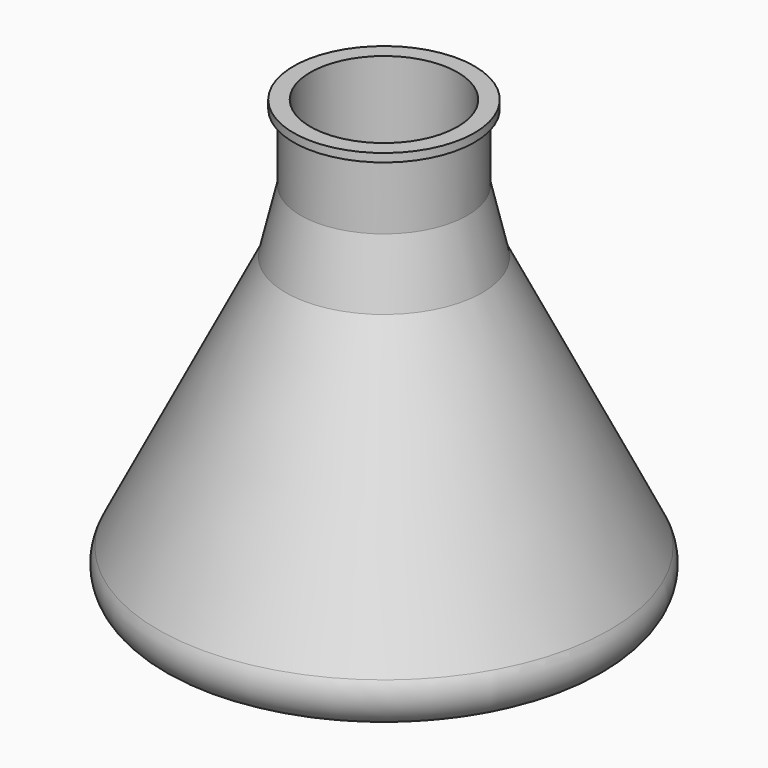
from build123d import *

# Parameters (mm, degrees)
F0_R      = 38.1
F2_R      = 12.7
F4_T      = -2.54
F5_R      = 12.7
F6_DEPTH  = 15.24
F7_R      = 10.5636642446
F8_DEPTH  = 53.34
F9_R      = 5.08
F10_SIZE  = 5.08
F11_R     = 13.7839746561
F12_DEPTH = 1.27
F13_R     = 11.2237856043
F14_DEPTH = 101.6
F16_R     = 11.2237856043
F17_DEPTH = 2.54


with BuildPart() as f3:
    # F0 (on Top) → F3 section 0
    with BuildSketch(Plane.XY):
        Circle(F0_R)
    # F2 (on offset) → F3 section 1
    with BuildSketch(Plane.XY.offset(50.8)):
        Circle(F2_R)
    loft()

    # F4
    f4_openings = [f3.faces().sort_by_distance(p)[0] for p in [
        (0, 0, 50.8),
    ]]
    offset(amount=F4_T, openings=f4_openings, kind=Kind.INTERSECTION)

    # F5 (on offset) → F6 (join)
    with BuildSketch(Plane.XY.offset(50.8)):
        Circle(F5_R)
    extrude(amount=F6_DEPTH)

    # F7 (on face) → F8 (cut)
    with BuildSketch(Plane.XY.offset(66.04)):
        Circle(F7_R)
    extrude(amount=-F8_DEPTH, mode=Mode.SUBTRACT)

    # F9
    f9_edges = [f3.edges().sort_by_distance(p)[0] for p in [
        (-38.1, 0, 0),
    ]]
    fillet(f9_edges, radius=F9_R)

    # F10
    f10_edges = [f3.edges().sort_by_distance(p)[0] for p in [
        (-12.7, 0, 50.8),
    ]]
    chamfer(f10_edges, length=F10_SIZE)

    # F11 (on face) → F12 (join)
    with BuildSketch(Plane.XY.offset(66.04)):
        Circle(F11_R)
    extrude(amount=F12_DEPTH)

    # F13 (on face) → F14 (cut)
    with BuildSketch(Plane.XY.offset(67.31)):
        Circle(F13_R)
    extrude(amount=-F14_DEPTH, mode=Mode.SUBTRACT)

    # F16 (on offset) → F17 (join)
    with BuildSketch(Plane.XY):
        Circle(F16_R)
    extrude(amount=F17_DEPTH)


solid = f3.part
